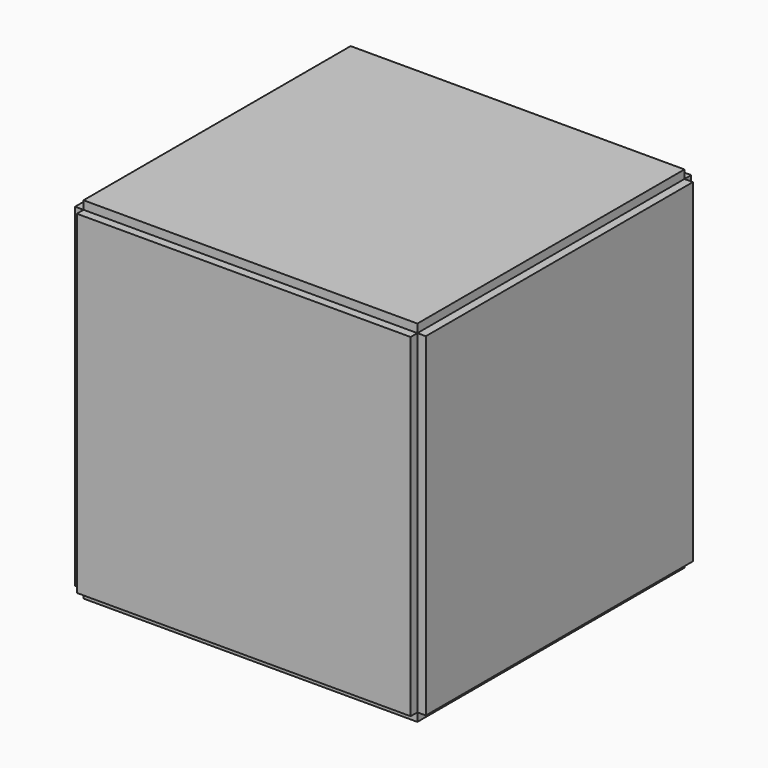
from build123d import *

# Parameters (mm, degrees)
F0_W          = 23.8
F0_H          = 23.8
F3_DEPTH      = 12.5
F3_DEPTH_BACK = 12.5
F1_W          = 23.8
F1_H          = 23.8
F4_DEPTH      = 12.5
F4_DEPTH_BACK = 12.5
F2_W          = 23.8
F2_H          = 23.8
F5_DEPTH      = 12.5
F5_DEPTH_BACK = 12.5


with BuildPart() as f3:
    # F0 (on Front) → F3 (new body, two sides)
    with BuildSketch(Plane.XZ) as f3_sk:
        Rectangle(F0_W, F0_H)
    extrude(amount=F3_DEPTH)
    extrude(f3_sk.sketch, amount=-F3_DEPTH_BACK)

    # F1 (on Right) → F4 (join, two sides)
    with BuildSketch(Plane.YZ) as f4_sk:
        Rectangle(F1_W, F1_H)
    extrude(amount=F4_DEPTH)
    extrude(f4_sk.sketch, amount=-F4_DEPTH_BACK)

    # F2 (on Top) → F5 (join, two sides)
    with BuildSketch(Plane.XY) as f5_sk:
        Rectangle(F2_W, F2_H)
    extrude(amount=F5_DEPTH)
    extrude(f5_sk.sketch, amount=-F5_DEPTH_BACK)


solid = f3.part
